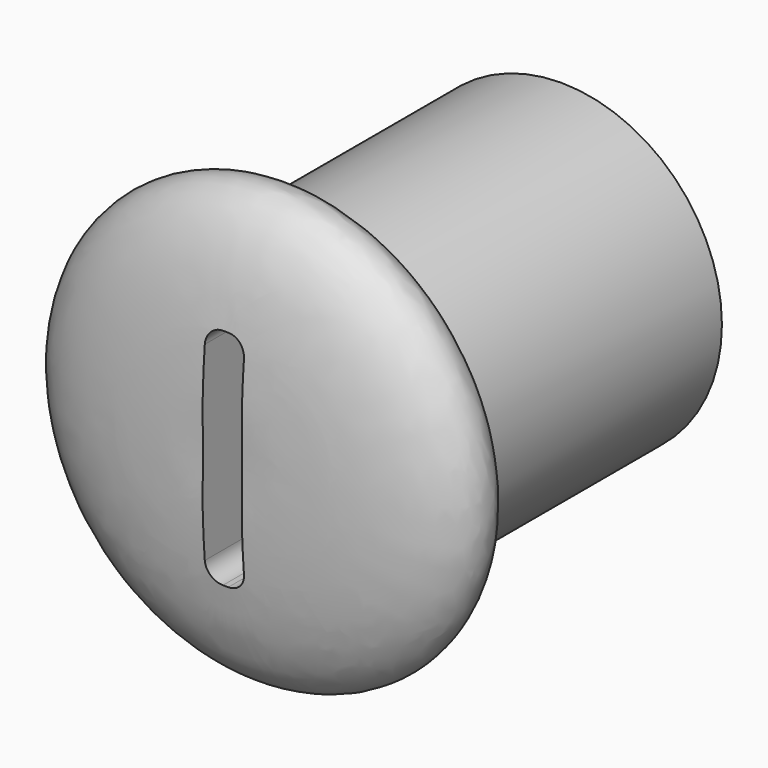
from build123d import *

# Parameters (mm, degrees)
F3_DEPTH = 25.0491994545


with BuildPart() as f1:
    # F0 (on Right) → F1 (revolve)
    with BuildSketch(Plane.YZ):
        with BuildLine():
            Line((-25, 0), (0, 0))
            Line((0, 0), (0, 9.5))
            Line((0, 9.5), (-20, 9.5))
            Line((-20, 9.5), (-20, 12.0843162353))
            add(Edge.make_bspline(
                [(-25, 0), (-25.0620774302, 2.5433010343), (-25.0716983516, 3.4419194063), (-24.5929996185, 10.3825960783), (-21.9290160892, 13.4230087933), (-20.1981659595, 12.6572140375), (-20, 12.0843162353)],
                knots=[0, 0, 0, 0, 0.2637629191, 0.5846935152, 0.8278932887, 1, 1, 1, 1], degree=3))
        make_face()
    revolve(axis=Axis((0, -12.5, 0), (0, -1, 0)))

    # F2 (on face) → F3 (cut, through all)
    with BuildSketch(Plane(origin=(0, 0, 0), x_dir=(-1, 0, 0), z_dir=(0, 1, 0))):
        with BuildLine():
            ThreePointArc((1.1575235985, 5.6240597516), (0.8646303797, 6.3311665328), (0.1575235985, 6.6240597516))
            Line((0.1575235985, 6.6240597516), (-0.1575235985, 6.6240597516))
            ThreePointArc((-0.1575235985, 6.6240597516), (-0.8646303797, 6.3311665328), (-1.1575235985, 5.6240597516))
            Line((-1.1575235985, 5.6240597516), (-1.1575235985, -5.6240597516))
            ThreePointArc((-1.1575235985, -5.6240597516), (-0.8646303797, -6.3311665328), (-0.1575235985, -6.6240597516))
            Line((-0.1575235985, -6.6240597516), (0.1575235985, -6.6240597516))
            ThreePointArc((0.1575235985, -6.6240597516), (0.8646303797, -6.3311665328), (1.1575235985, -5.6240597516))
            Line((1.1575235985, -5.6240597516), (1.1575235985, 5.6240597516))
        make_face()
    extrude(amount=-F3_DEPTH, mode=Mode.SUBTRACT)


solid = f1.part
